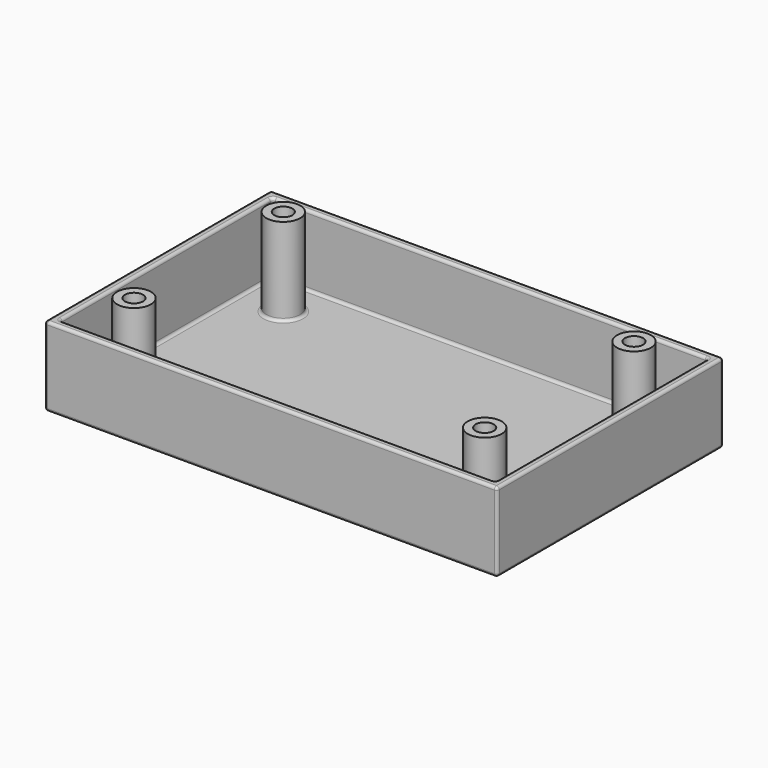
from build123d import *

# Parameters (mm, degrees)
F0_W     = 80
F0_H     = 50
F0_W_2   = 77
F0_H_2   = 47
F0_R     = 3
F0_W_3   = 52
F0_H_3   = 13
F1_DEPTH = 1.5
F2_DEPTH = 14
F3_DEPTH = 17
F4_D     = 3.2
F5_R     = 0.5


with BuildPart() as f1:
    # F0 (on Top) → F1 (new body)
    with BuildSketch(Plane.XY):
        with Locations((-12.1877747178, 27.6641865224)):
            Rectangle(F0_W, F0_H)
        with Locations((-12.1877747178, 27.6641865224)):
            Rectangle(F0_W_2, F0_H_2, mode=Mode.SUBTRACT)
        with Locations((-12.1877747178, 27.6641865224)):
            Rectangle(F0_W_2, F0_H_2)
        with Locations((-43.1877747178, 11.1641865224)):
            Circle(F0_R, mode=Mode.SUBTRACT)
        with Locations((-12.1877747178, 14.6641865224)):
            Rectangle(F0_W_3, F0_H_3, mode=Mode.SUBTRACT)
        with Locations((18.8122252822, 11.1641865224)):
            Circle(F0_R, mode=Mode.SUBTRACT)
        with Locations((-43.1877747178, 44.1641865224)):
            Circle(F0_R, mode=Mode.SUBTRACT)
        with Locations((18.8122252822, 44.1641865224)):
            Circle(F0_R, mode=Mode.SUBTRACT)
        with Locations((18.8122252822, 11.1641865224)):
            Circle(F0_R)
        with Locations((-43.1877747178, 11.1641865224)):
            Circle(F0_R)
        with Locations((-43.1877747178, 44.1641865224)):
            Circle(F0_R)
        with Locations((18.8122252822, 44.1641865224)):
            Circle(F0_R)
    extrude(amount=F1_DEPTH)

    # F0 (on Top) → F2 (join)
    with BuildSketch(Plane.XY):
        with Locations((-12.1877747178, 27.6641865224)):
            Rectangle(F0_W, F0_H)
        with Locations((-12.1877747178, 27.6641865224)):
            Rectangle(F0_W_2, F0_H_2, mode=Mode.SUBTRACT)
    extrude(amount=F2_DEPTH)

    # F0 (on Top) → F3 (join)
    with BuildSketch(Plane.XY):
        with Locations((-43.1877747178, 44.1641865224)):
            Circle(F0_R)
        with Locations((-43.1877747178, 11.1641865224)):
            Circle(F0_R)
        with Locations((18.8122252822, 44.1641865224)):
            Circle(F0_R)
        with Locations((18.8122252822, 11.1641865224)):
            Circle(F0_R)
    extrude(amount=F3_DEPTH)

    # F4 (through all)
    with Locations(Plane(origin=(0, 0, 0), x_dir=(1, 0, 0), z_dir=(0, 0, -1))):
        with Locations((18.8122252822, -11.1641865224), (-43.1877747178, -11.1641865224), (-43.1877747178, -44.1641865224), (18.8122252822, -44.1641865224)):
            Hole(F4_D / 2)

    # F5
    f5_edges = [f1.edges().sort_by_distance(p)[0] for p in [
        (-12.187775, 52.664187, 0),
        (27.812225, 27.664187, 0),
        (-52.187775, 27.664187, 0),
        (-12.187775, 2.664187, 0),
        (-44.787775, 11.164187, 0),
        (-38.187775, 14.664187, 0),
        (-12.187775, 8.164187, 0),
        (-12.187775, 21.164187, 0),
        (13.812225, 14.664187, 0),
        (17.212225, 11.164187, 0),
        (-44.787775, 44.164187, 0),
        (17.212225, 44.164187, 0),
        (27.812225, 52.664187, 7),
        (-52.187775, 52.664187, 7),
        (-52.187775, 2.664187, 7),
        (-12.187775, 2.664187, 14),
        (-52.187775, 27.664187, 14),
        (27.812225, 2.664187, 7),
        (27.812225, 27.664187, 14),
        (-12.187775, 51.164187, 1.5),
        (26.312225, 27.664187, 1.5),
        (-50.687775, 27.664187, 1.5),
        (-12.187775, 4.164187, 1.5),
        (-46.187775, 11.164187, 1.5),
        (-38.187775, 14.664187, 1.5),
        (-12.187775, 8.164187, 1.5),
        (-12.187775, 21.164187, 1.5),
        (13.812225, 14.664187, 1.5),
        (15.812225, 11.164187, 1.5),
        (-46.187775, 44.164187, 1.5),
        (15.812225, 44.164187, 1.5),
        (26.312225, 4.164187, 7.75),
        (-12.187775, 4.164187, 14),
        (26.312225, 27.664187, 14),
        (-12.187775, 51.164187, 14),
        (-12.187775, 52.664187, 14),
        (-50.687775, 27.664187, 14),
        (26.312225, 51.164187, 7.75),
        (-50.687775, 51.164187, 7.75),
        (-50.687775, 4.164187, 7.75),
    ]]
    fillet(f5_edges, radius=F5_R)


solid = f1.part
